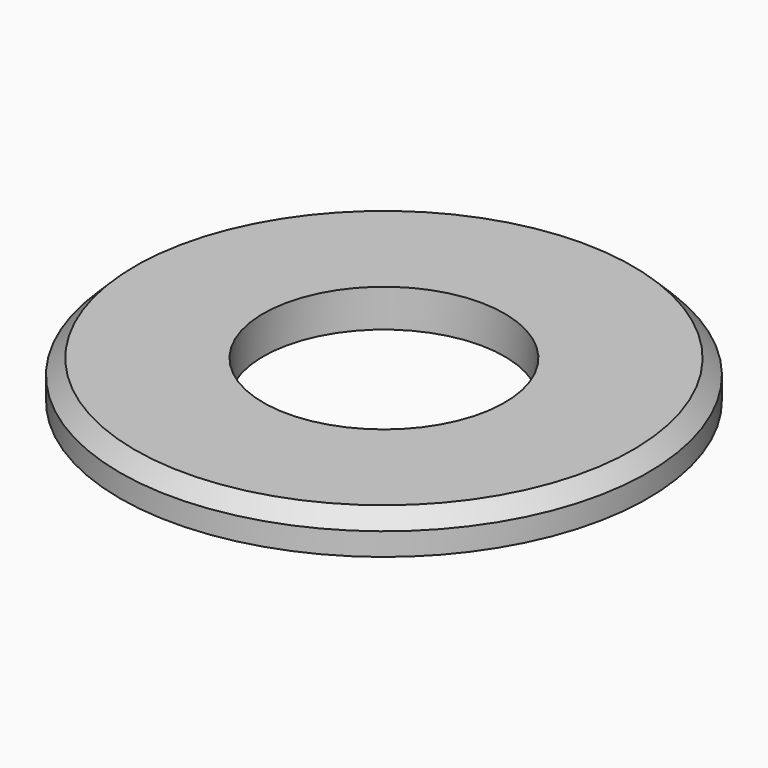
from build123d import *


with BuildPart() as part:
    # Sketch → Revolution (revolve)
    with BuildSketch(Plane.YZ):
        Polygon((1.6, 0), (3.5, 0), (3.5, 0.3), (3.3, 0.5), (1.6, 0.5), align=None)
    revolve(axis=Axis((0, 0, 0), (0, 0, 1)))


solid = part.part
